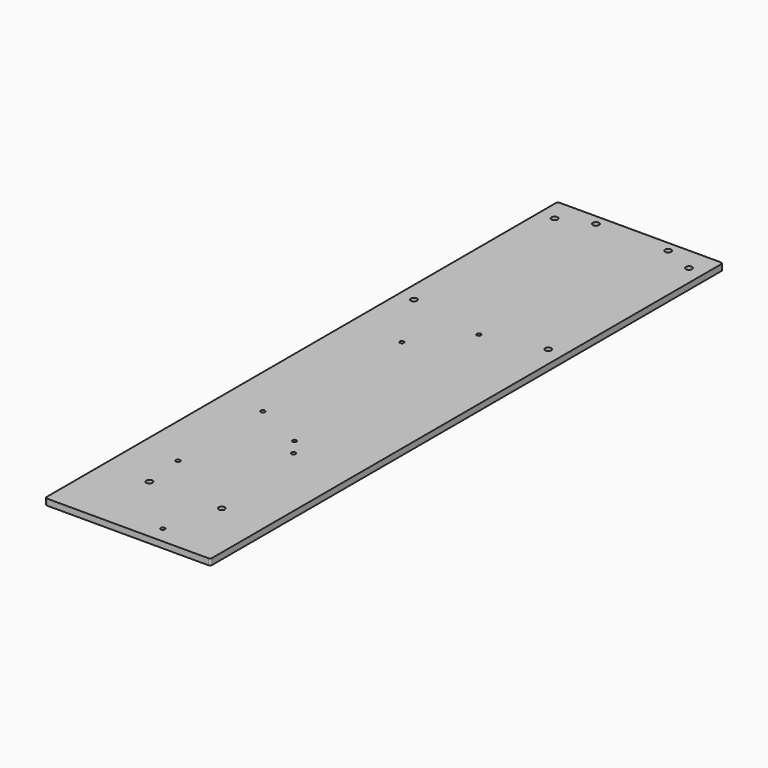
from build123d import *

# Parameters (mm, degrees)
F0_R     = 1.499841
F0_R_2   = 1
F0_R_3   = 1.499862
F1_DEPTH = 3


with BuildPart() as f1:
    # F0 (on Top) → F1 (new body)
    with BuildSketch(Plane.XY):
        with BuildLine():
            ThreePointArc((40.012444, 139.000051), (39.71955, 139.707158), (39.012444, 140.000051))
            Line((39.012444, 140.000051), (-39.012444, 140.000051))
            ThreePointArc((-39.012444, 140.000051), (-39.71955, 139.707158), (-40.012444, 139.000051))
            Line((-40.012444, 139.000051), (-40.012444, -168.999949))
            ThreePointArc((-40.012444, -168.999949), (-39.71955, -169.707056), (-39.012444, -169.999949))
            Line((-39.012444, -169.999949), (39.012444, -169.999949))
            ThreePointArc((39.012444, -169.999949), (39.71955, -169.707056), (40.012444, -168.999949))
            Line((40.012444, -168.999949), (40.012444, 139.000051))
        make_face()
        with Locations((-17.499995, -134.999949)):
            Circle(F0_R, mode=Mode.SUBTRACT)
        with Locations((-19.713467, -114.874793)):
            Circle(F0_R_2, mode=Mode.SUBTRACT)
        with Locations((-20.000456, -63.274724)):
            Circle(F0_R_2, mode=Mode.SUBTRACT)
        with Locations((10.48664, -161.87488)):
            Circle(F0_R_2, mode=Mode.SUBTRACT)
        with Locations((17.500005, -134.999949)):
            Circle(F0_R, mode=Mode.SUBTRACT)
        with Locations((4.499546, -74.774705)):
            Circle(F0_R_2, mode=Mode.SUBTRACT)
        with Locations((10.486471, -82.874976)):
            Circle(F0_R_2, mode=Mode.SUBTRACT)
        with Locations((-32.499995, 43.726539)):
            Circle(F0_R_3, mode=Mode.SUBTRACT)
        with Locations((-14.300454, 13.725212)):
            Circle(F0_R_2, mode=Mode.SUBTRACT)
        with Locations((-32.499995, 128.807344)):
            Circle(F0_R_3, mode=Mode.SUBTRACT)
        with Locations((-17.499995, 135.000051)):
            Circle(F0_R, mode=Mode.SUBTRACT)
        with Locations((4.499546, 36.725295)):
            Circle(F0_R_2, mode=Mode.SUBTRACT)
        with Locations((32.500005, 43.726539)):
            Circle(F0_R_3, mode=Mode.SUBTRACT)
        with Locations((17.500005, 135.000051)):
            Circle(F0_R, mode=Mode.SUBTRACT)
        with Locations((32.500005, 128.807344)):
            Circle(F0_R_3, mode=Mode.SUBTRACT)
    extrude(amount=F1_DEPTH)


solid = f1.part
